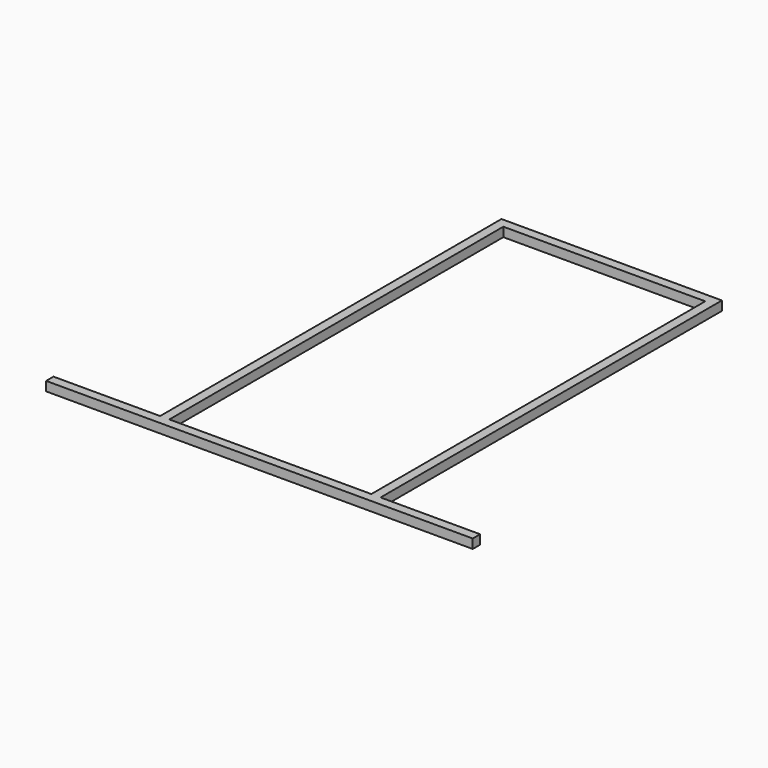
from build123d import *

# Parameters (mm, degrees)
BOX034_W     = 284
BOX034_H     = 13
BOX034_DEPTH = 13
BOX011_W     = 13
BOX011_H     = 600
BOX011_DEPTH = 13
BOX007_W     = 600
BOX007_H     = 13
BOX007_DEPTH = 13
BOX010_W     = 13
BOX010_H     = 600
BOX010_DEPTH = 13


with BuildPart() as cube031:
    # Box034 → Box034 (new body)
    with BuildSketch(Plane(origin=(-137, 525, -20), x_dir=(1, 0, 0), z_dir=(0, 0, 1))):
        with Locations((142, 6.5)):
            Rectangle(BOX034_W, BOX034_H)
    extrude(amount=BOX034_DEPTH)


with BuildPart() as cube008:
    # Box011 → Box011 (new body)
    with BuildSketch(Plane(origin=(-150, -62, -20), x_dir=(1, 0, 0), z_dir=(0, 0, 1))):
        with Locations((6.5, 300)):
            Rectangle(BOX011_W, BOX011_H)
    extrude(amount=BOX011_DEPTH)


with BuildPart() as frame_front:
    # Box007 → Box007 (new body)
    with BuildSketch(Plane(origin=(-300, -75, -20), x_dir=(1, 0, 0), z_dir=(0, 0, 1))):
        with Locations((300, 6.5)):
            Rectangle(BOX007_W, BOX007_H)
    extrude(amount=BOX007_DEPTH)


with BuildPart() as frame_full:
    # Box010 → Box010 (new body)
    with BuildSketch(Plane(origin=(147, -62, -20), x_dir=(1, 0, 0), z_dir=(0, 0, 1))):
        with Locations((6.5, 300)):
            Rectangle(BOX010_W, BOX010_H)
    extrude(amount=BOX010_DEPTH)

    # Connect014: union Cube008, Frame_Front
    add(cube008.part)
    add(frame_front.part)

    # Connect015: union Cube031
    add(cube031.part)


solid = frame_full.part
